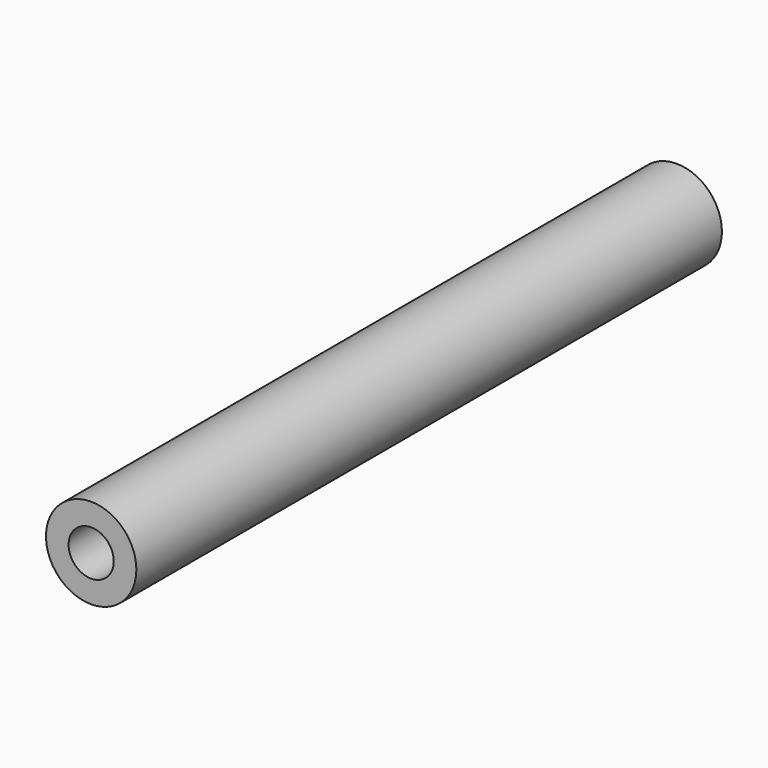
from build123d import *

# Parameters (mm, degrees)
CYLINDER002_R     = 1.5
CYLINDER002_DEPTH = 48.6
CYLINDER001_R     = 3
CYLINDER001_DEPTH = 48.6


with BuildPart() as cylinder002:
    # Cylinder002 → Cylinder002 (new body)
    with BuildSketch(Plane(origin=(5.2, 24.3, 2.75), x_dir=(1, 0, 0), z_dir=(0, -1, 0))):
        Circle(CYLINDER002_R)
    extrude(amount=CYLINDER002_DEPTH)


with BuildPart() as cut005:
    # Cylinder001 → Cylinder001 (new body)
    with BuildSketch(Plane(origin=(5.2, 24.3, 2.75), x_dir=(1, 0, 0), z_dir=(0, -1, 0))):
        Circle(CYLINDER001_R)
    extrude(amount=CYLINDER001_DEPTH)

    # Cut005: cut Cylinder002
    add(cylinder002.part, mode=Mode.SUBTRACT)


solid = cut005.part
